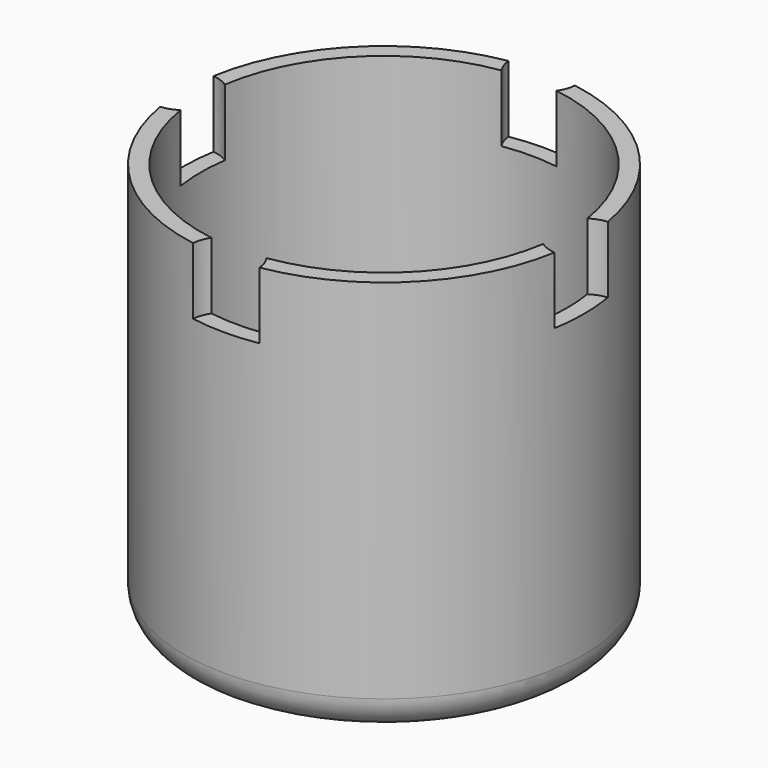
from build123d import *

# Parameters (mm, degrees)
F0_R     = 76.2
F1_DEPTH = 152.4
F2_R     = 12.7
F3_T     = -6.35
F4_R     = 12.7
F5_DEPTH = 25.4


with BuildPart() as f1:
    # F0 (on Top) → F1 (new body)
    with BuildSketch(Plane.XY):
        Circle(F0_R)
    extrude(amount=F1_DEPTH)

    # F2
    f2_edges = [f1.edges().sort_by_distance(p)[0] for p in [
        (-76.2, 0, 0),
    ]]
    fillet(f2_edges, radius=F2_R)

    # F3
    f3_openings = [f1.faces().sort_by_distance(p)[0] for p in [
        (0, 0, 152.4),
    ]]
    offset(amount=F3_T, openings=f3_openings)

    # F4 (on face) → F5 (cut)
    with BuildSketch(Plane.XY.offset(152.4)):
        with Locations((0, 76.2)):
            Circle(F4_R)
        with Locations((-76.2, 0)):
            Circle(F4_R)
        with Locations((0, -76.2)):
            Circle(F4_R)
        with Locations((76.2, 0)):
            Circle(F4_R)
    extrude(amount=-F5_DEPTH, mode=Mode.SUBTRACT)


solid = f1.part
